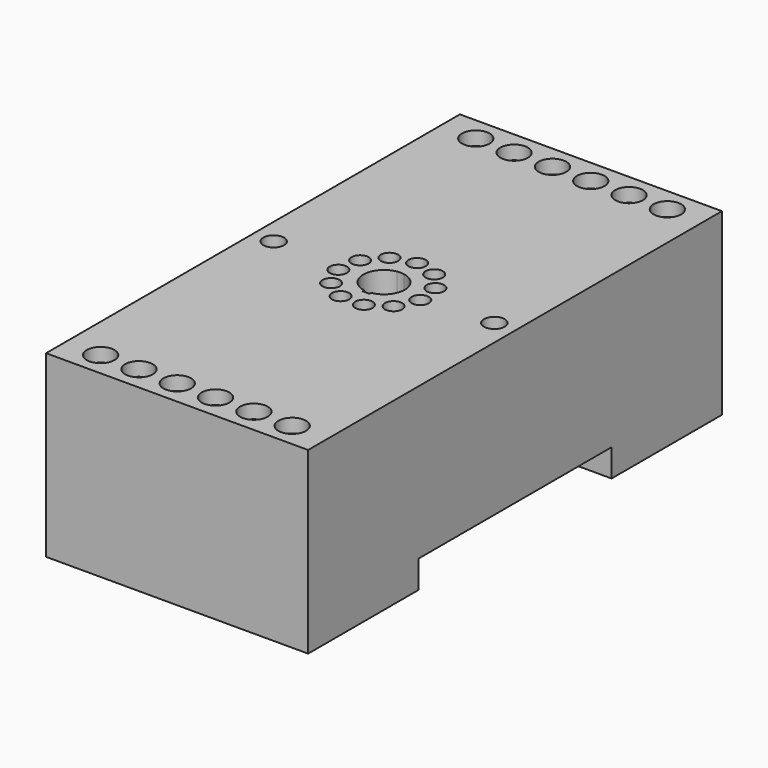
from build123d import *

# Parameters (mm, degrees)
F1_DEPTH = 38
F2_R     = 1.25
F2_R_2   = 1.5
F3_DEPTH = 4
F4_R     = 2
F5_DEPTH = 2


with BuildPart() as f1:
    # F0 (on Right) → F1 (new body)
    with BuildSketch(Plane.YZ):
        Polygon((0, 26), (0, 0), (20, 0), (20, 4), (55, 4), (55, 0), (75, 0), (75, 26), align=None)
    extrude(amount=F1_DEPTH)

    # F2 (on face) → F3 (cut)
    with BuildSketch(Plane.XY.offset(26)):
        with BuildLine():
            Line((18.5, 34.5419601085), (18.5, 40.4580398915))
            ThreePointArc((18.5, 40.4580398915), (16, 37.5), (18.5, 34.5419601085))
        make_face()
        with BuildLine():
            Line((19.5, 34.5419601085), (19.5, 40.4580398915))
            ThreePointArc((19.5, 40.4580398915), (19, 40.5), (18.5, 40.4580398915))
            Line((18.5, 40.4580398915), (18.5, 34.5419601085))
            ThreePointArc((18.5, 34.5419601085), (19, 34.5), (19.5, 34.5419601085))
        make_face()
        with BuildLine():
            ThreePointArc((19.5, 34.5419601085), (21.2912878475, 35.5635083269), (22, 37.5))
            ThreePointArc((22, 37.5), (21.2912878475, 39.4364916731), (19.5, 40.4580398915))
            Line((19.5, 40.4580398915), (19.5, 34.5419601085))
        make_face()
        with BuildLine():
            Line((19.5, 34.25), (19.5, 34.5419601085))
            ThreePointArc((19.5, 34.5419601085), (19, 34.5), (18.5, 34.5419601085))
            Line((18.5, 34.5419601085), (18.5, 34.25))
            Line((18.5, 34.25), (19.5, 34.25))
        make_face()
        with Locations((19, 43.5)):
            Circle(F2_R)
        with Locations((35, 37.5)):
            Circle(F2_R_2)
        with Locations((3, 37.5)):
            Circle(F2_R_2)
        with Locations((15.7561550967, 42.5475211979)):
            Circle(F2_R)
        with Locations((13.5422080293, 39.9924900812)):
            Circle(F2_R)
        with Locations((13.061071348, 36.6461109755)):
            Circle(F2_R)
        with Locations((14.4655025493, 33.5708356016)):
            Circle(F2_R)
        with Locations((17.3096046506, 31.7430421608)):
            Circle(F2_R)
        with Locations((20.6903953311, 31.7430421554)):
            Circle(F2_R)
        with Locations((23.5344974382, 33.5708355872)):
            Circle(F2_R)
        with Locations((24.9389286493, 36.6461109566)):
            Circle(F2_R)
        with Locations((24.4577919786, 39.9924900638)):
            Circle(F2_R)
        with Locations((22.2438449193, 42.5475211876)):
            Circle(F2_R)
    extrude(amount=-F3_DEPTH, mode=Mode.SUBTRACT)

    # F4 (on face) → F5 (cut)
    with BuildSketch(Plane.XY.offset(26)):
        with Locations((5.1111, 71.5)):
            Circle(F4_R)
        with Locations((10.66665, 71.5)):
            Circle(F4_R)
        with Locations((16.2222, 71.5)):
            Circle(F4_R)
        with Locations((21.77775, 71.5)):
            Circle(F4_R)
        with Locations((27.3333, 71.5)):
            Circle(F4_R)
        with Locations((32.88885, 71.5)):
            Circle(F4_R)
        with Locations((5.1111, 3.5)):
            Circle(F4_R)
        with Locations((10.66665, 3.5)):
            Circle(F4_R)
        with Locations((16.2222, 3.5)):
            Circle(F4_R)
        with Locations((21.77775, 3.5)):
            Circle(F4_R)
        with Locations((27.3333, 3.5)):
            Circle(F4_R)
        with Locations((32.88885, 3.5)):
            Circle(F4_R)
    extrude(amount=-F5_DEPTH, mode=Mode.SUBTRACT)


solid = f1.part
